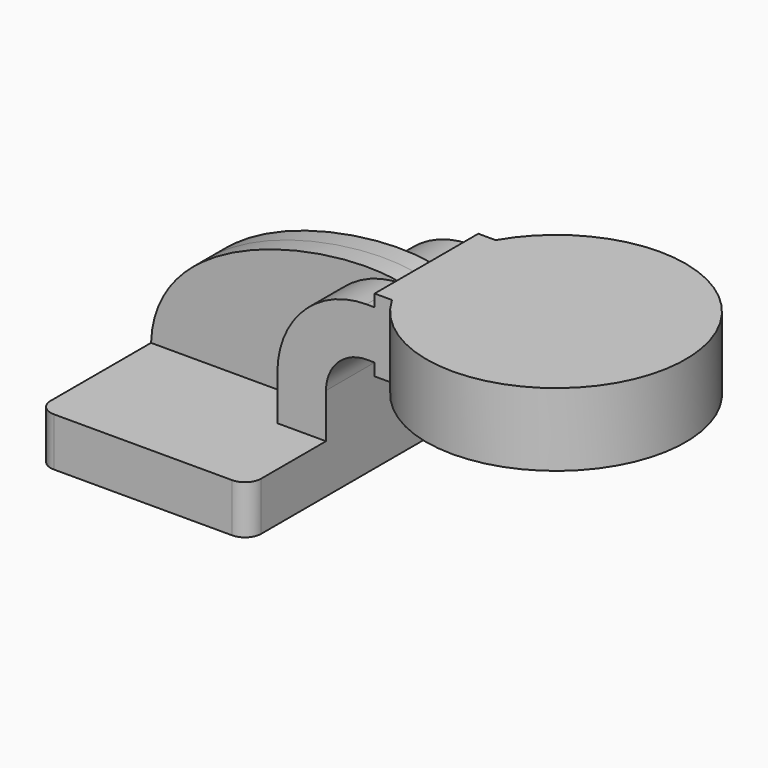
from build123d import *

# Parameters (mm, degrees)
F1_DEPTH = 63.5
F2_DEPTH = 25.4
F3_DEPTH = 7.9375
F5_R     = 6.35


with BuildPart() as f1:
    # F0 (on Front) → F1 (new body, symmetric)
    with BuildSketch(Plane.XZ):
        Polygon((22.225, 9.525), (-41.275, 9.525), (-41.275, -9.525), (41.275, -9.525), (41.275, 9.525), align=None)
    extrude(amount=F1_DEPTH, both=True)

    # F0 (on Front) → F2 (join, symmetric)
    with BuildSketch(Plane.XZ):
        with BuildLine():
            Line((22.225, 27.0002), (22.225, 9.525))
            Line((22.225, 9.525), (41.275, 9.525))
            Line((41.275, 9.525), (41.275, 27.0002))
            ThreePointArc((41.275, 27.0002), (45.92468, 38.22552), (57.15, 42.8752))
            Line((57.15, 42.8752), (60.325, 42.8752))
            Line((60.325, 42.8752), (60.325, 61.9252))
            Line((60.325, 61.9252), (57.15, 61.9252))
            ThreePointArc((57.15, 61.9252), (32.454296, 51.695904), (22.225, 27.0002))
        make_face()
        Polygon((60.325, 66.675), (60.325, 61.9252), (60.325, 42.8752), (60.325, 38.1), (111.125, 38.1), (111.125, 66.675), align=None)
    extrude(amount=F2_DEPTH, both=True)

    # F0 (on Front) → F3 (join, symmetric)
    with BuildSketch(Plane.XZ):
        with BuildLine():
            add(Edge.make_bspline(
                [(-41.275, 9.525), (-39.773323, 54.415304), (32.63097, 67.989412), (57.15, 61.9252)],
                knots=[0, 0, 0, 0, 111.504536, 111.504536, 111.504536, 111.504536], degree=3))
            Line((-41.275, 9.525), (22.225, 9.525))
            Line((22.225, 9.525), (22.225, 27.0002))
            ThreePointArc((22.225, 27.0002), (32.454296, 51.695904), (57.15, 61.9252))
        make_face()
    extrude(amount=F3_DEPTH, both=True)

    # F0 (on Front) → F4 (revolve)
    with BuildSketch(Plane.XZ):
        Polygon((60.325, 66.675), (60.325, 61.9252), (60.325, 42.8752), (60.325, 38.1), (111.125, 38.1), (111.125, 66.675), align=None)
    revolve(axis=Axis((111.125, 0, 52.3875), (0, 0, 1)))

    # F5
    f5_edges = [f1.edges().sort_by_distance(p)[0] for p in [
        (-41.275, -63.5, 0),
        (41.275, -63.5, 0),
        (41.275, 63.5, 0),
        (-41.275, 63.5, 0),
    ]]
    fillet(f5_edges, radius=F5_R)


solid = f1.part
